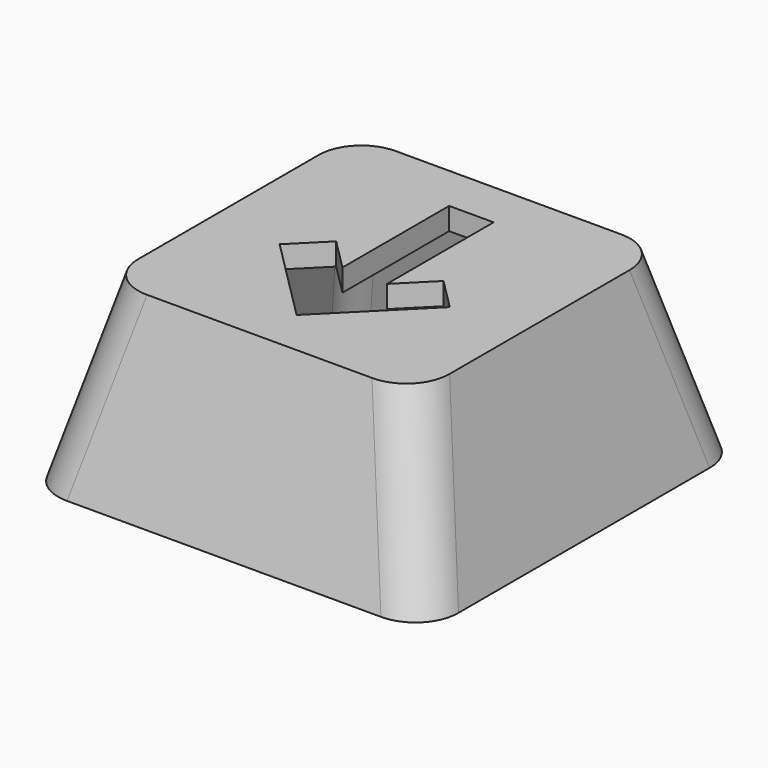
from build123d import *

# Parameters (mm, degrees)
SKETCH_W             = 18
SKETCH_H             = 18
PAD_DEPTH            = 8
POCKET_DEPTH         = 18.001
POCKET001_DEPTH      = 9.001
POCKET001_DEPTH_BACK = 9.001
FILLET_R             = 2
THICKNESS_T          = -1
POCKET002_DEPTH      = 5.01


with BuildPart() as part:
    # Sketch → Pad (new body)
    with BuildSketch(Plane.XY):
        Rectangle(SKETCH_W, SKETCH_H)
    extrude(amount=PAD_DEPTH)

    # Sketch001 (on Face1 of Pad) → Pocket (cut, through all)
    with BuildSketch(Plane.XZ.offset(9)):
        Polygon((-9, 8), (-9, 0), (-7, 8), align=None)
        Polygon((9, 8), (9, 0), (7, 8), align=None)
    extrude(amount=-POCKET_DEPTH, mode=Mode.SUBTRACT)

    # Sketch002 → Pocket001 (cut, two sides)
    with BuildSketch(Plane.YZ) as pocket001_sk:
        Polygon((-9, 8), (-7, 8), (-9, 0), align=None)
        Polygon((9, 8), (7, 8), (9, 0), align=None)
    extrude(amount=-POCKET001_DEPTH, mode=Mode.SUBTRACT)
    extrude(pocket001_sk.sketch, amount=POCKET001_DEPTH_BACK, mode=Mode.SUBTRACT)

    # Fillet
    fillet_edges = [part.edges().sort_by_distance(p)[0] for p in [
        (-8, 8, 4),
        (-8, -8, 4),
        (8, -8, 4),
        (8, 8, 4),
    ]]
    fillet(fillet_edges, radius=FILLET_R)

    # Thickness
    thickness_openings = [part.faces().sort_by_distance(p)[0] for p in [
        (0, 0, 0),
    ]]
    offset(amount=THICKNESS_T, openings=thickness_openings, kind=Kind.INTERSECTION)

    # Sketch003 (on Face9 of Thickness) → Pocket002 (cut)
    with BuildSketch(Plane.XY.offset(8)):
        Polygon((-1, 4.914214), (1, 4.914214), (1, -1.085786), (2.414214, 0.328427), (3.828427, -1.085786), (0, -4.914214), (-3.828427, -1.085786), (-2.414214, 0.328427), (-1, -1.085786), align=None)
    extrude(amount=-POCKET002_DEPTH, mode=Mode.SUBTRACT)


solid = part.part
